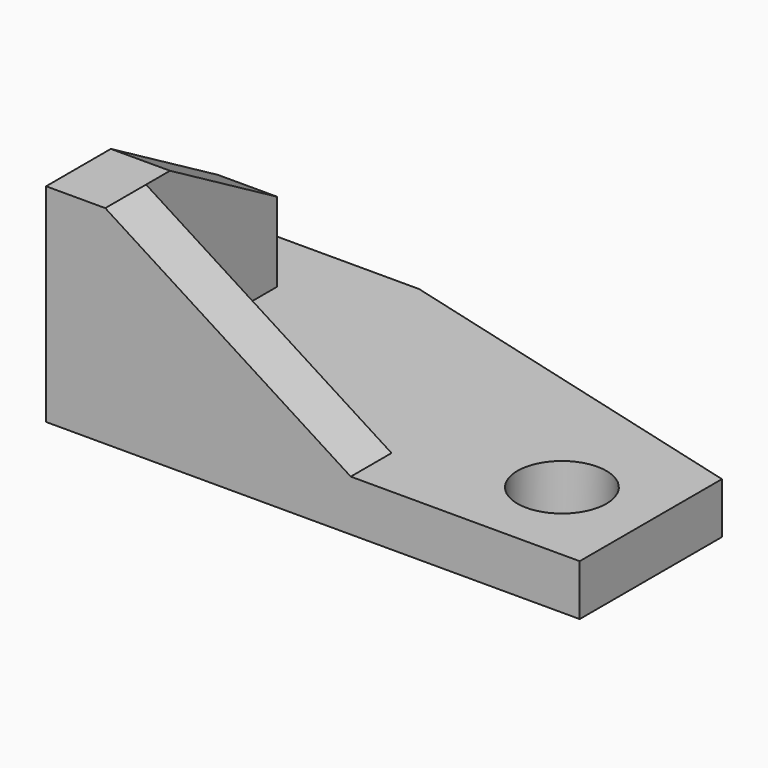
from build123d import *

# Parameters (mm, degrees)
F0_R     = 9.525
F0_W     = 52.578
F0_H     = 10.922
F1_DEPTH = 10.922
F2_DEPTH = 44.45
F4_DEPTH = 10.923
F5_SIZE2 = 16.5711074263
F5_SIZE  = 28.702


with BuildPart() as f1:
    # F0 (on Top) → F1 (new body)
    with BuildSketch(Plane.XY):
        Polygon((-29.5291747898, 23.4974569838), (-61.2791747898, 23.4974569838), (-61.2791747898, 9.3315567698), (-48.6009344459, 9.3315567698), (-48.6009344459, -25.7785430162), (3.9770655541, -25.7785430162), (3.9770655541, -36.7005430162), (53.0208252102, -36.7005430162), (53.0208252102, 1.3782511486), align=None)
        with Locations((33.9708252102, -17.6505430162)):
            Circle(F0_R, mode=Mode.SUBTRACT)
        with Locations((-22.3119344459, -31.2395430162)):
            Rectangle(F0_W, F0_H)
        Polygon((-48.6009344459, 9.3315567698), (-61.2791747898, 9.3315567698), (-61.2791747898, -36.7005430162), (-48.6009344459, -36.7005430162), (-48.6009344459, -25.7785430162), align=None)
    extrude(amount=F1_DEPTH)

    # F0 (on Top) → F2 (join)
    with BuildSketch(Plane.XY):
        Polygon((-48.6009344459, 9.3315567698), (-61.2791747898, 9.3315567698), (-61.2791747898, -36.7005430162), (-48.6009344459, -36.7005430162), (-48.6009344459, -25.7785430162), align=None)
        with Locations((-22.3119344459, -31.2395430162)):
            Rectangle(F0_W, F0_H)
    extrude(amount=F2_DEPTH)

    # F3 (on face) → F4 (cut, through all)
    with BuildSketch(Plane(origin=(0, -25.7785430162, 0), x_dir=(-1, 0, 0), z_dir=(0, 1, 0))):
        Polygon((-3.9770655541, 10.922), (48.6009344459, 44.45), (-3.9770655541, 44.45), align=None)
    extrude(amount=-F4_DEPTH, mode=Mode.SUBTRACT)

    # F5
    f5_edges = [f1.edges().sort_by_distance(p)[0] for p in [
        (-54.940055, 9.331557, 44.45),
    ]]
    f5_side = f1.faces().sort_by_distance((-54.940055, -13.684493, 44.45))[0]
    chamfer(f5_edges, length=F5_SIZE, length2=F5_SIZE2, reference=f5_side)


solid = f1.part
